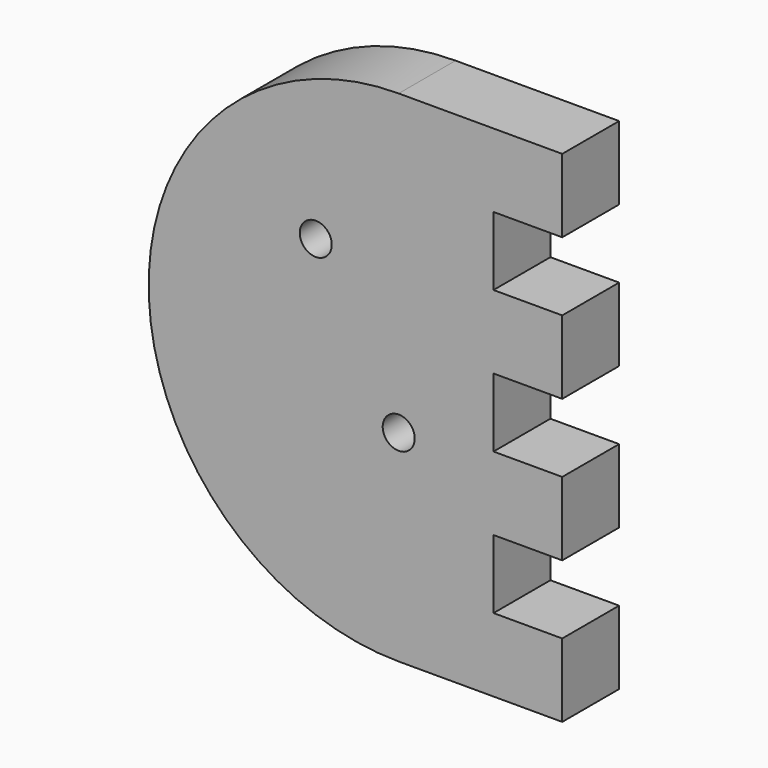
from build123d import *

# Parameters (mm, degrees)
F0_R     = 1.35
F1_DEPTH = 6


with BuildPart() as f1:
    # F0 (on Front) → F1 (new body)
    with BuildSketch(Plane.XZ):
        with BuildLine():
            ThreePointArc((0, 25.2), (-21.1, 4.1), (0, -17))
            Line((0, -17), (13.8, -17))
            Line((13.8, -17), (13.8, -10.8))
            Line((13.8, -10.8), (8, -10.8))
            Line((8, -10.8), (8, -5))
            Line((8, -5), (13.8, -5))
            Line((13.8, -5), (13.8, 1.2))
            Line((13.8, 1.2), (8, 1.2))
            Line((8, 1.2), (8, 7))
            Line((8, 7), (13.8, 7))
            Line((13.8, 7), (13.8, 13.2))
            Line((13.8, 13.2), (8, 13.2))
            Line((8, 13.2), (8, 19))
            Line((8, 19), (13.8, 19))
            Line((13.8, 19), (13.8, 25.2))
            Line((13.8, 25.2), (0, 25.2))
        make_face()
        Circle(F0_R, mode=Mode.SUBTRACT)
        with Locations((-7, 12.124356)):
            Circle(F0_R, mode=Mode.SUBTRACT)
    extrude(amount=F1_DEPTH)


solid = f1.part
